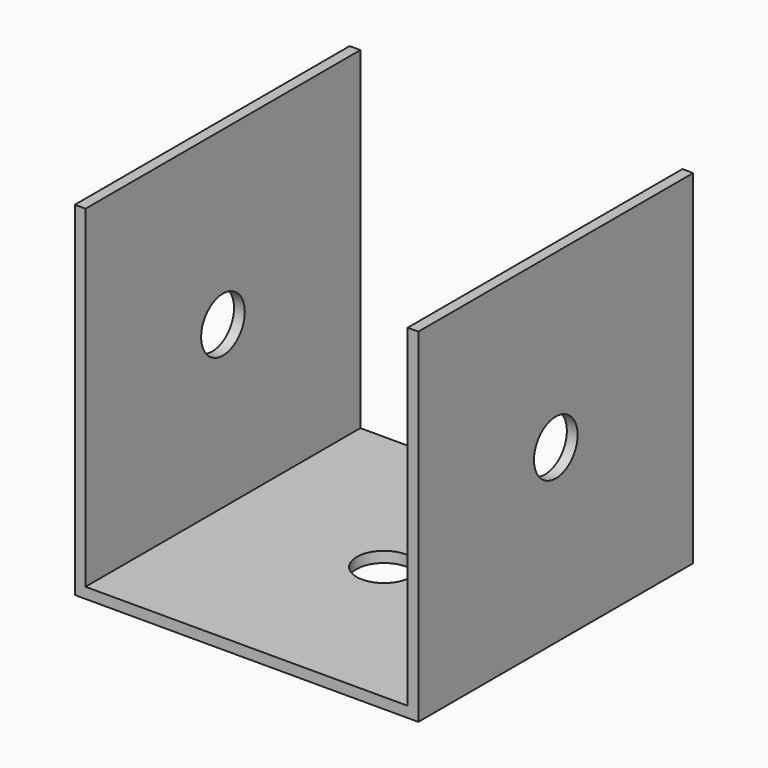
from build123d import *

# Parameters (mm, degrees)
F1_DEPTH = 32
F2_R     = 2.54
F3_DEPTH = 228.6
F5_DEPTH = 76.2


with BuildPart() as f1:
    # F0 (on Front) → F1 (new body)
    with BuildSketch(Plane.XZ):
        Polygon((-15, 15.75), (-16, 15.75), (-16, -16.25), (16, -16.25), (16, 15.75), (15, 15.75), (15, -15.25), (-15, -15.25), align=None)
    extrude(amount=F1_DEPTH)

    # F2 (on face) → F3 (cut)
    with BuildSketch(Plane.YZ.offset(16)):
        with Locations((-16, -0.25)):
            Circle(F2_R)
    extrude(amount=-F3_DEPTH, mode=Mode.SUBTRACT)

    # F4 (on face) → F5 (cut)
    with BuildSketch(Plane(origin=(0, 0, -16.25), x_dir=(1, 0, 0), z_dir=(0, 0, -1))):
        with BuildLine():
            Line((1.7960512242, 14.2039487758), (-1.7960512242, 17.7960512242))
            ThreePointArc((-1.7960512242, 17.7960512242), (-1.7960512242, 14.2039487758), (1.7960512242, 14.2039487758))
        make_face()
        with BuildLine():
            ThreePointArc((2.54, 16), (0.9720159182, 18.3466540126), (-1.7960512242, 17.7960512242))
            Line((-1.7960512242, 17.7960512242), (1.7960512242, 14.2039487758))
            ThreePointArc((1.7960512242, 14.2039487758), (2.3466540126, 15.0279840818), (2.54, 16))
        make_face()
    extrude(amount=-F5_DEPTH, mode=Mode.SUBTRACT)


solid = f1.part
